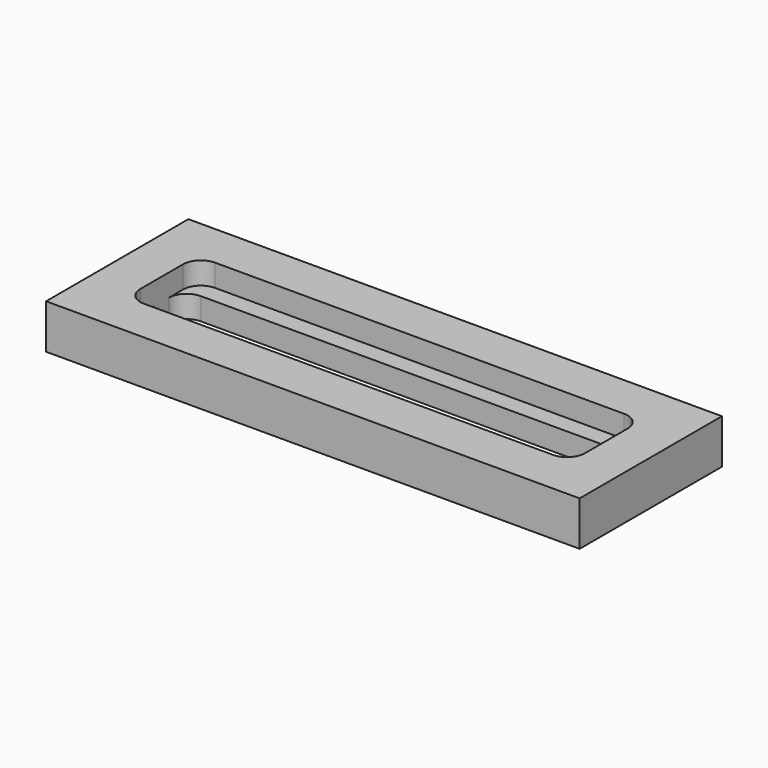
from build123d import *

# Parameters (mm, degrees)
F0_W     = 120
F0_H     = 40
F1_DEPTH = 10
F2_W     = 100
F2_H     = 20
F3_DEPTH = 5
F4_R     = 4
F5_W     = 100
F5_H     = 12
F6_DEPTH = 5
F7_R     = 4


with BuildPart() as f1:
    # F0 (on Top) → F1 (new body)
    with BuildSketch(Plane.XY):
        Rectangle(F0_W, F0_H)
    extrude(amount=F1_DEPTH)

    # F2 (on face) → F3 (cut)
    with BuildSketch(Plane.XY.offset(10)):
        Rectangle(F2_W, F2_H)
    extrude(amount=-F3_DEPTH, mode=Mode.SUBTRACT)

    # F4
    f4_edges = [f1.edges().sort_by_distance(p)[0] for p in [
        (-50, 10, 7.5),
        (50, 10, 7.5),
        (50, -10, 7.5),
        (-50, -10, 7.5),
    ]]
    fillet(f4_edges, radius=F4_R)

    # F5 (on face) → F6 (cut, through all)
    with BuildSketch(Plane.XY.offset(5)):
        Rectangle(F5_W, F5_H)
    extrude(amount=-F6_DEPTH, mode=Mode.SUBTRACT)

    # F7
    f7_edges = [f1.edges().sort_by_distance(p)[0] for p in [
        (-50, 6, 2.5),
        (-50, -6, 2.5),
        (50, -6, 2.5),
        (50, 6, 2.5),
    ]]
    fillet(f7_edges, radius=F7_R)


solid = f1.part
